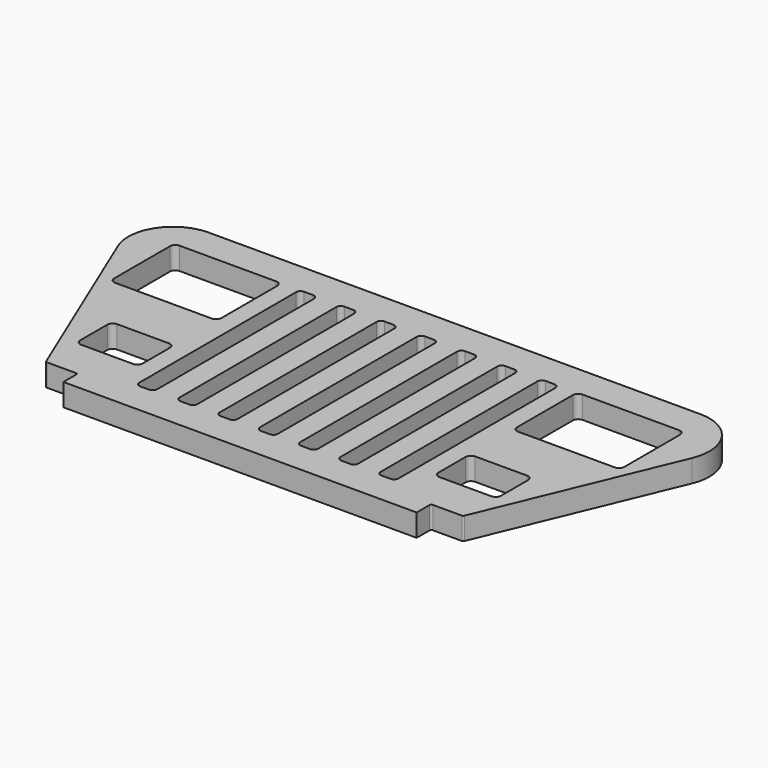
from build123d import *

# Parameters (mm, degrees)
F1_DEPTH = 3.175


with BuildPart() as f1:
    # F0 (on Top) → F1 (new body)
    with BuildSketch(Plane.XY):
        with BuildLine():
            ThreePointArc((40.786538, 10.257692), (40.208519, 16.222346), (34.925, 19.05))
            Line((34.925, 19.05), (0.141111, 19.05))
            Line((0.141111, 19.05), (-0.141111, 19.05))
            Line((-0.141111, 19.05), (-34.925, 19.05))
            ThreePointArc((-34.925, 19.05), (-40.208519, 16.222346), (-40.786538, 10.257692))
            Line((-40.786538, 10.257692), (-29.698462, -16.353692))
            ThreePointArc((-29.698462, -16.353692), (-29.604894, -16.467341), (-29.464, -16.51))
            Line((-29.464, -16.51), (-25.347444, -16.51))
            ThreePointArc((-25.347444, -16.51), (-25.167839, -16.584395), (-25.093444, -16.764))
            Line((-25.093444, -16.764), (-25.093444, -19.05))
            Line((-25.093444, -19.05), (-0.141111, -19.05))
            Line((-0.141111, -19.05), (0.141111, -19.05))
            Line((0.141111, -19.05), (25.093444, -19.05))
            Line((25.093444, -19.05), (25.093444, -16.764))
            ThreePointArc((25.093444, -16.764), (25.167839, -16.584395), (25.347444, -16.51))
            Line((25.347444, -16.51), (29.464, -16.51))
            ThreePointArc((29.464, -16.51), (29.604894, -16.467341), (29.698462, -16.353692))
            Line((29.698462, -16.353692), (40.786538, 10.257692))
        make_face()
        with BuildLine():
            Line((-21.759422, -10.836581), (-29.125422, -10.836581))
            ThreePointArc((-29.125422, -10.836581), (-29.664238, -10.613396), (-29.887422, -10.074581))
            Line((-29.887422, -10.074581), (-29.887422, -5.248581))
            ThreePointArc((-29.887422, -5.248581), (-29.664238, -4.709765), (-29.125422, -4.486581))
            Line((-29.125422, -4.486581), (-21.759422, -4.486581))
            ThreePointArc((-21.759422, -4.486581), (-21.220607, -4.709765), (-20.997422, -5.248581))
            Line((-20.997422, -5.248581), (-20.997422, -10.074581))
            ThreePointArc((-20.997422, -10.074581), (-21.220607, -10.613396), (-21.759422, -10.836581))
        make_face(mode=Mode.SUBTRACT)
        with BuildLine():
            Line((21.759422, -4.486581), (29.125422, -4.486581))
            ThreePointArc((29.125422, -4.486581), (29.664238, -4.709765), (29.887422, -5.248581))
            Line((29.887422, -5.248581), (29.887422, -10.074581))
            ThreePointArc((29.887422, -10.074581), (29.664238, -10.613396), (29.125422, -10.836581))
            Line((29.125422, -10.836581), (21.759422, -10.836581))
            ThreePointArc((21.759422, -10.836581), (21.220607, -10.613396), (20.997422, -10.074581))
            Line((20.997422, -10.074581), (20.997422, -5.248581))
            ThreePointArc((20.997422, -5.248581), (21.220607, -4.709765), (21.759422, -4.486581))
        make_face(mode=Mode.SUBTRACT)
        with BuildLine():
            Line((-21.759422, 3.133419), (-35.475422, 3.133419))
            ThreePointArc((-35.475422, 3.133419), (-36.014238, 3.356604), (-36.237422, 3.895419))
            Line((-36.237422, 3.895419), (-36.237422, 13.801419))
            ThreePointArc((-36.237422, 13.801419), (-36.014238, 14.340235), (-35.475422, 14.563419))
            Line((-35.475422, 14.563419), (-21.759422, 14.563419))
            ThreePointArc((-21.759422, 14.563419), (-21.220607, 14.340235), (-20.997422, 13.801419))
            Line((-20.997422, 13.801419), (-20.997422, 3.895419))
            ThreePointArc((-20.997422, 3.895419), (-21.220607, 3.356604), (-21.759422, 3.133419))
        make_face(mode=Mode.SUBTRACT)
        with BuildLine():
            Line((-18.415, -13.9192), (-18.415, 13.9192))
            ThreePointArc((-18.415, 13.9192), (-18.229013, 14.368213), (-17.78, 14.5542))
            Line((-17.78, 14.5542), (-16.51, 14.5542))
            ThreePointArc((-16.51, 14.5542), (-16.060987, 14.368213), (-15.875, 13.9192))
            Line((-15.875, 13.9192), (-15.875, -13.9192))
            ThreePointArc((-15.875, -13.9192), (-16.060987, -14.368213), (-16.51, -14.5542))
            Line((-16.51, -14.5542), (-17.78, -14.5542))
            ThreePointArc((-17.78, -14.5542), (-18.229013, -14.368213), (-18.415, -13.9192))
        make_face(mode=Mode.SUBTRACT)
        with BuildLine():
            Line((-12.7, -13.9192), (-12.7, 13.9192))
            ThreePointArc((-12.7, 13.9192), (-12.514013, 14.368213), (-12.065, 14.5542))
            Line((-12.065, 14.5542), (-10.795, 14.5542))
            ThreePointArc((-10.795, 14.5542), (-10.345987, 14.368213), (-10.16, 13.9192))
            Line((-10.16, 13.9192), (-10.16, -13.9192))
            ThreePointArc((-10.16, -13.9192), (-10.345987, -14.368213), (-10.795, -14.5542))
            Line((-10.795, -14.5542), (-12.065, -14.5542))
            ThreePointArc((-12.065, -14.5542), (-12.514013, -14.368213), (-12.7, -13.9192))
        make_face(mode=Mode.SUBTRACT)
        with BuildLine():
            Line((-6.985, -13.9192), (-6.985, 13.9192))
            ThreePointArc((-6.985, 13.9192), (-6.799013, 14.368213), (-6.35, 14.5542))
            Line((-6.35, 14.5542), (-5.08, 14.5542))
            ThreePointArc((-5.08, 14.5542), (-4.630987, 14.368213), (-4.445, 13.9192))
            Line((-4.445, 13.9192), (-4.445, -13.9192))
            ThreePointArc((-4.445, -13.9192), (-4.630987, -14.368213), (-5.08, -14.5542))
            Line((-5.08, -14.5542), (-6.35, -14.5542))
            ThreePointArc((-6.35, -14.5542), (-6.799013, -14.368213), (-6.985, -13.9192))
        make_face(mode=Mode.SUBTRACT)
        with BuildLine():
            Line((-0.635, 14.5542), (0.635, 14.5542))
            ThreePointArc((0.635, 14.5542), (1.084013, 14.368213), (1.27, 13.9192))
            Line((1.27, 13.9192), (1.27, -13.9192))
            ThreePointArc((1.27, -13.9192), (1.084013, -14.368213), (0.635, -14.5542))
            Line((0.635, -14.5542), (-0.635, -14.5542))
            ThreePointArc((-0.635, -14.5542), (-1.084013, -14.368213), (-1.27, -13.9192))
            Line((-1.27, -13.9192), (-1.27, 13.9192))
            ThreePointArc((-1.27, 13.9192), (-1.084013, 14.368213), (-0.635, 14.5542))
        make_face(mode=Mode.SUBTRACT)
        with BuildLine():
            ThreePointArc((6.35, 14.5542), (6.799013, 14.368213), (6.985, 13.9192))
            Line((6.985, 13.9192), (6.985, -13.9192))
            ThreePointArc((6.985, -13.9192), (6.799013, -14.368213), (6.35, -14.5542))
            Line((6.35, -14.5542), (5.08, -14.5542))
            ThreePointArc((5.08, -14.5542), (4.630987, -14.368213), (4.445, -13.9192))
            Line((4.445, -13.9192), (4.445, 13.9192))
            ThreePointArc((4.445, 13.9192), (4.630987, 14.368213), (5.08, 14.5542))
            Line((5.08, 14.5542), (6.35, 14.5542))
        make_face(mode=Mode.SUBTRACT)
        with BuildLine():
            ThreePointArc((12.065, 14.5542), (12.514013, 14.368213), (12.7, 13.9192))
            Line((12.7, 13.9192), (12.7, -13.9192))
            ThreePointArc((12.7, -13.9192), (12.514013, -14.368213), (12.065, -14.5542))
            Line((12.065, -14.5542), (10.795, -14.5542))
            ThreePointArc((10.795, -14.5542), (10.345987, -14.368213), (10.16, -13.9192))
            Line((10.16, -13.9192), (10.16, 13.9192))
            ThreePointArc((10.16, 13.9192), (10.345987, 14.368213), (10.795, 14.5542))
            Line((10.795, 14.5542), (12.065, 14.5542))
        make_face(mode=Mode.SUBTRACT)
        with BuildLine():
            ThreePointArc((17.78, 14.5542), (18.229013, 14.368213), (18.415, 13.9192))
            Line((18.415, 13.9192), (18.415, -13.9192))
            ThreePointArc((18.415, -13.9192), (18.229013, -14.368213), (17.78, -14.5542))
            Line((17.78, -14.5542), (16.51, -14.5542))
            ThreePointArc((16.51, -14.5542), (16.060987, -14.368213), (15.875, -13.9192))
            Line((15.875, -13.9192), (15.875, 13.9192))
            ThreePointArc((15.875, 13.9192), (16.060987, 14.368213), (16.51, 14.5542))
            Line((16.51, 14.5542), (17.78, 14.5542))
        make_face(mode=Mode.SUBTRACT)
        with BuildLine():
            Line((21.759422, 14.563419), (35.475422, 14.563419))
            ThreePointArc((35.475422, 14.563419), (36.014238, 14.340235), (36.237422, 13.801419))
            Line((36.237422, 13.801419), (36.237422, 3.895419))
            ThreePointArc((36.237422, 3.895419), (36.014238, 3.356604), (35.475422, 3.133419))
            Line((35.475422, 3.133419), (21.759422, 3.133419))
            ThreePointArc((21.759422, 3.133419), (21.220607, 3.356604), (20.997422, 3.895419))
            Line((20.997422, 3.895419), (20.997422, 13.801419))
            ThreePointArc((20.997422, 13.801419), (21.220607, 14.340235), (21.759422, 14.563419))
        make_face(mode=Mode.SUBTRACT)
    extrude(amount=F1_DEPTH)


solid = f1.part
